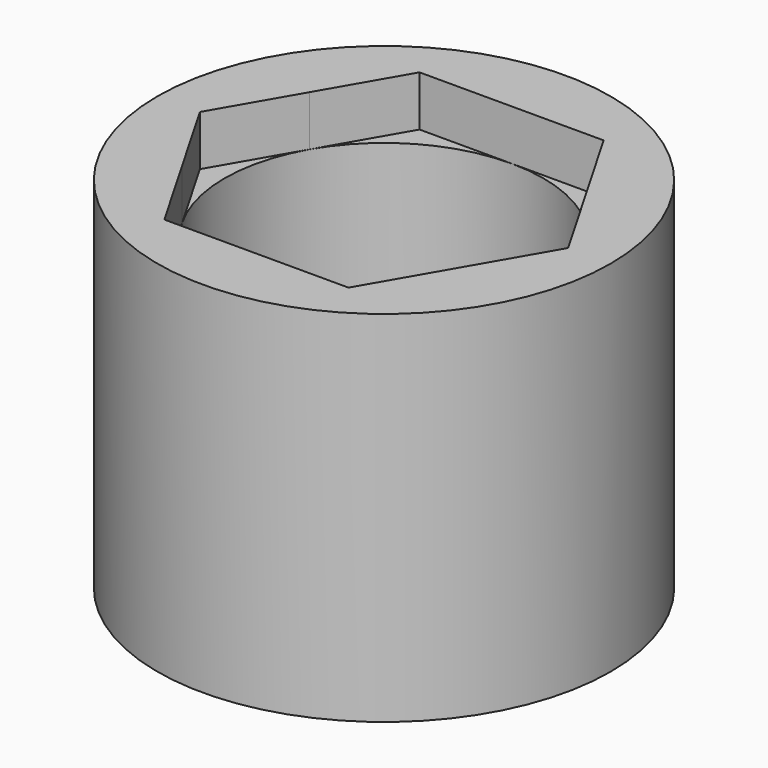
from build123d import *

# Parameters (mm, degrees)
F0_R     = 13.5
F0_R_2   = 9.5
F1_DEPTH = 21.4
F3_DEPTH = 3


with BuildPart() as f1:
    # F0 (on Top) → F1 (new body)
    with BuildSketch(Plane.XY):
        Circle(F0_R)
        Circle(F0_R_2, mode=Mode.SUBTRACT)
    extrude(amount=F1_DEPTH)

    # F2 (on face) → F3 (cut)
    with BuildSketch(Plane.XY.offset(21.4)):
        with BuildLine():
            Line((8.227241, -4.75), (10.969655, 0))
            Line((10.969655, 0), (8.227241, 4.75))
            ThreePointArc((8.227241, 4.75), (9.176295, 2.458781), (9.5, 0))
            ThreePointArc((9.5, 0), (9.176295, -2.458781), (8.227241, -4.75))
        make_face()
        with BuildLine():
            Line((-10.969655, 0), (-8.227241, -4.75))
            ThreePointArc((-8.227241, -4.75), (-9.5, 0), (-8.227241, 4.75))
            Line((-8.227241, 4.75), (-10.969655, 0))
        make_face()
        with BuildLine():
            Line((-5.484828, -9.5), (0, -9.5))
            ThreePointArc((0, -9.5), (-4.75, -8.227241), (-8.227241, -4.75))
            Line((-8.227241, -4.75), (-5.484828, -9.5))
        make_face()
        with BuildLine():
            ThreePointArc((0, 9.5), (4.75, 8.227241), (8.227241, 4.75))
            Line((8.227241, 4.75), (5.484828, 9.5))
            Line((5.484828, 9.5), (0, 9.5))
        make_face()
        with BuildLine():
            Line((5.484828, -9.5), (8.227241, -4.75))
            ThreePointArc((8.227241, -4.75), (4.75, -8.227241), (0, -9.5))
            Line((0, -9.5), (5.484828, -9.5))
        make_face()
        with BuildLine():
            ThreePointArc((-8.227241, 4.75), (-4.75, 8.227241), (0, 9.5))
            Line((0, 9.5), (-5.484828, 9.5))
            Line((-5.484828, 9.5), (-8.227241, 4.75))
        make_face()
    extrude(amount=-F3_DEPTH, mode=Mode.SUBTRACT)


solid = f1.part
